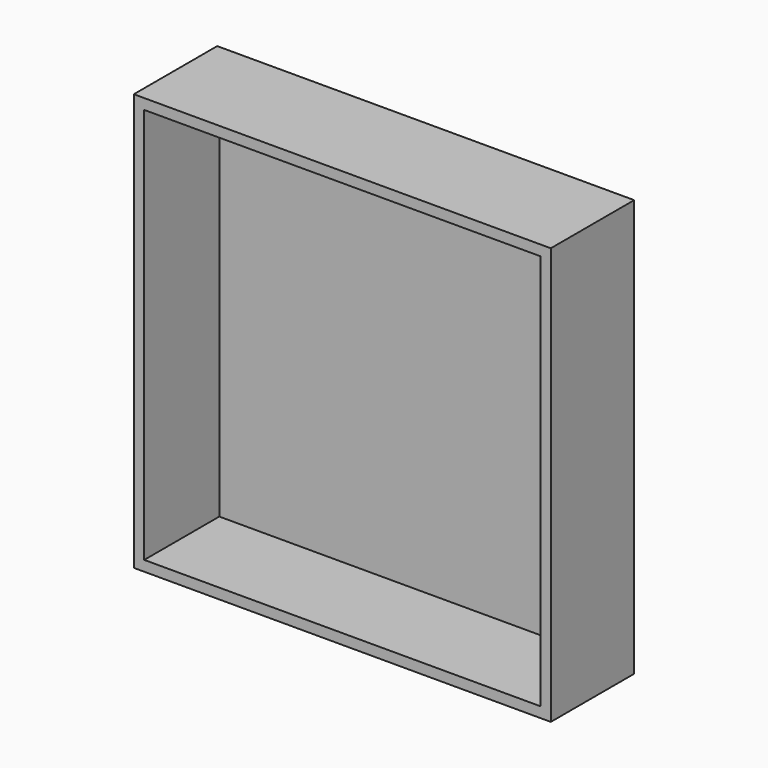
from build123d import *

# Parameters (mm, degrees)
F0_W     = 101.6
F0_H     = 101.6
F1_DEPTH = 25.4
F3_T     = -2.54


with BuildPart() as f1:
    # F0 (on Front) → F1 (new body)
    with BuildSketch(Plane.XZ):
        Rectangle(F0_W, F0_H)
        Rectangle(F0_W, F0_H)
    extrude(amount=F1_DEPTH)

    # F3
    f3_openings = [f1.faces().sort_by_distance(p)[0] for p in [
        (0, -25.4, 0),
    ]]
    offset(amount=F3_T, openings=f3_openings)


solid = f1.part
